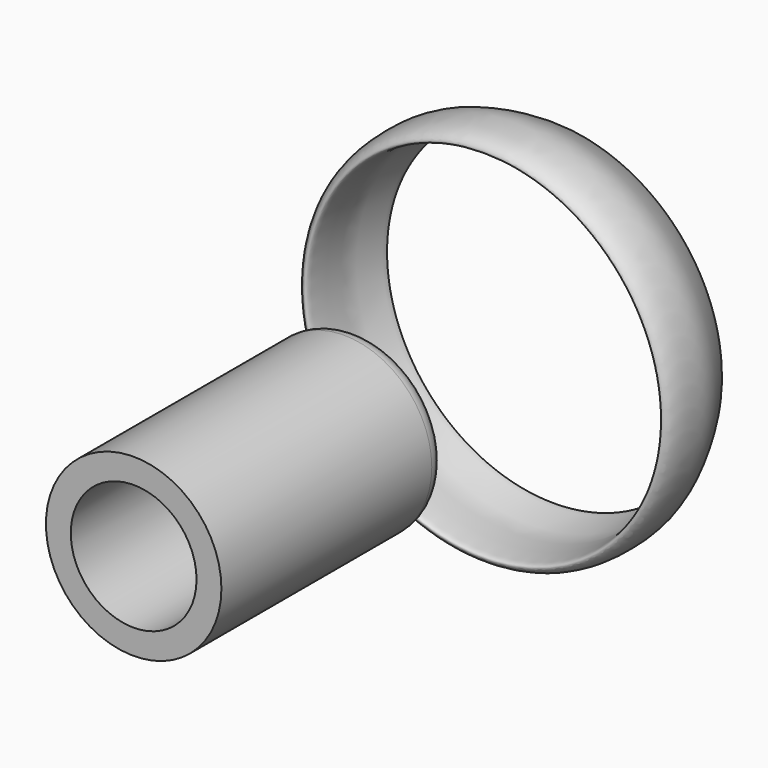
from build123d import *

# Parameters (mm, degrees)
F0_R     = 25
F1_DEPTH = 80
F6_R     = 17.9123092865
F7_DEPTH = 74.422
F8_R     = 3.6050515813
F9_DEPTH = 7.62
F10_R    = 5.08
F11_R    = 1.8396307345


with BuildPart() as f1:
    # F0 (on Front) → F1 (new body)
    with BuildSketch(Plane.XZ):
        Circle(F0_R)
    extrude(amount=F1_DEPTH)

    # F6 (on offset) → F7 (cut)
    with BuildSketch(Plane.XZ.offset(80)):
        Circle(F6_R)
    extrude(amount=-F7_DEPTH, mode=Mode.SUBTRACT)

    # F8 (on Front) → F9 (cut)
    with BuildSketch(Plane.XZ):
        Circle(F8_R)
    extrude(amount=F9_DEPTH, mode=Mode.SUBTRACT)

    # F10
    f10_edges = [f1.edges().sort_by_distance(p)[0] for p in [
        (-25, 0, 0),
    ]]
    fillet(f10_edges, radius=F10_R)

    # F11
    f11_edges = [f1.edges().sort_by_distance(p)[0] for p in [
        (-17.912309, -5.578, 0),
    ]]
    fillet(f11_edges, radius=F11_R)


with BuildPart() as f5:
    # F3 (on Right) → F5 (revolve)
    with BuildSketch(Plane.YZ):
        with BuildLine():
            add(Edge.make_bspline(
                [(61.844445765, 52.3522235453), (58.9485784466, 53.635402518), (55.4235916046, 54.1317094665), (46.0918815285, 53.7756964736), (43.6506935375, 50.4158741306), (47.2763032409, 49.8614005378), (54.4159937636, 49.3932951982), (60.7255699062, 50.0174958164), (74.3784440068, 45.5546326294), (65.1013771798, 50.9090545574), (61.844445765, 52.3522235453)],
                knots=[0, 0, 0, 0, 0.133697011, 0.2804083462, 0.3591941613, 0.4374951072, 0.56969248, 0.7090203827, 0.849633306, 1, 1, 1, 1], degree=3))
        make_face()
    revolve(axis=Axis((0, 58.4860015661, 0), (0, -1, 0)))


solid = Compound([f1.part, f5.part])
